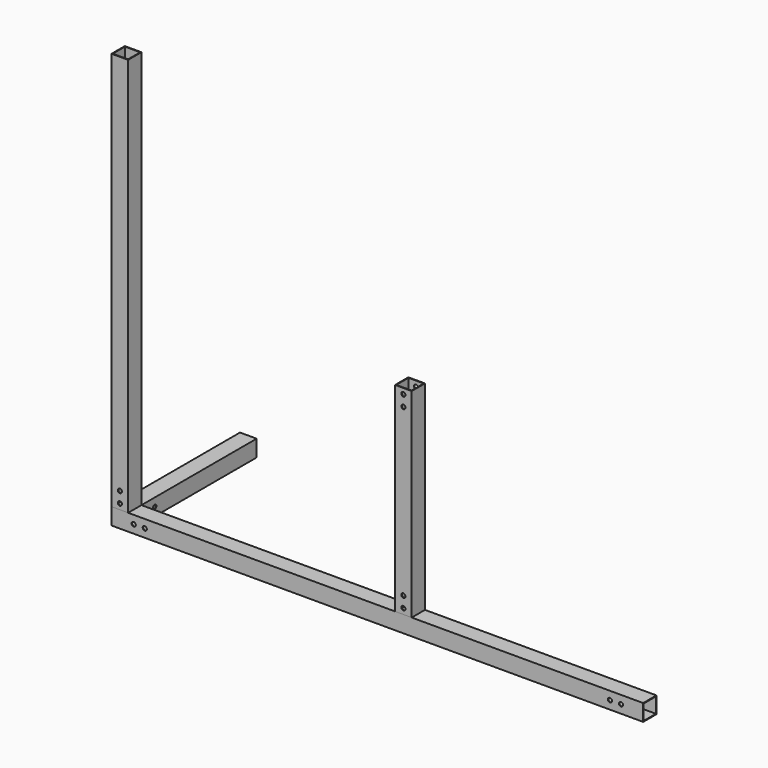
from build123d import *

# Parameters (mm, degrees)
F0_W      = 38.1
F0_H      = 38.1
F0_W_2    = 34.9504
F0_H_2    = 34.9504
F1_DEPTH  = 1219.2
F2_W      = 1.5748
F2_H      = 1.5748
F2_W_2    = 34.9504
F2_H_2    = 34.9504
F3_DEPTH  = 914.4
F4_W      = 1.5748
F4_H      = 1.5748
F4_W_2    = 34.9504
F4_H_2    = 34.9504
F5_DEPTH  = 330.2
F6_R      = 4.7625
F7_DEPTH  = 368.301
F8_R      = 4.7625
F9_DEPTH  = 1219.201
F11_W     = 1.5748
F11_H     = 1.5748
F11_W_2   = 34.9504
F11_H_2   = 34.9504
F12_DEPTH = 457.2
F13_R     = 4.7625
F14_DEPTH = 368.301
F10_R     = 4.7625
F15_DEPTH = 368.301


with BuildPart() as f1:
    # F0 (on Right) → F1 (new body)
    with BuildSketch(Plane.YZ):
        Rectangle(F0_W, F0_H)
        Rectangle(F0_W_2, F0_H_2, mode=Mode.SUBTRACT)
    extrude(amount=F1_DEPTH)

    # F6 (on face) → F7 (cut, through all)
    with BuildSketch(Plane.XZ.offset(19.05)):
        with Locations((50.8, 0)):
            Circle(F6_R)
        with Locations((76.2, 0)):
            Circle(F6_R)
        with Locations((1168.4, 0)):
            Circle(F6_R)
        with Locations((1143, 0)):
            Circle(F6_R)
    extrude(amount=-F7_DEPTH, mode=Mode.SUBTRACT)


with BuildPart() as f3:
    # F2 (on face) → F3 (new body)
    with BuildSketch(Plane.XY.offset(19.05)):
        with Locations((0.7874, -18.2626)):
            Rectangle(F2_W, F2_H)
        with Locations((19.05, -18.2626)):
            Rectangle(F2_W_2, F2_H)
        with Locations((0.7874, 0)):
            Rectangle(F2_W, F2_H_2)
        with Locations((37.3126, -18.2626)):
            Rectangle(F2_W, F2_H)
        with Locations((0.7874, 18.2626)):
            Rectangle(F2_W, F2_H)
        with Locations((37.3126, 0)):
            Rectangle(F2_W, F2_H_2)
        with Locations((19.05, 18.2626)):
            Rectangle(F2_W_2, F2_H)
        with Locations((37.3126, 18.2626)):
            Rectangle(F2_W, F2_H)
    extrude(amount=F3_DEPTH)

    # F10 (on face) → F15 (cut, through all)
    with BuildSketch(Plane.XZ.offset(19.05)):
        with Locations((19.05, 31.75)):
            Circle(F10_R)
        with Locations((19.05, 57.15)):
            Circle(F10_R)
    extrude(amount=-F15_DEPTH, mode=Mode.SUBTRACT)


with BuildPart() as f5:
    # F4 (on face) → F5 (new body)
    with BuildSketch(Plane(origin=(0, 19.05, 0), x_dir=(-1, 0, 0), z_dir=(0, 1, 0))):
        with Locations((-0.7874, 18.2626)):
            Rectangle(F4_W, F4_H)
        with Locations((-19.05, 18.2626)):
            Rectangle(F4_W_2, F4_H)
        with Locations((-0.7874, 0)):
            Rectangle(F4_W, F4_H_2)
        with Locations((-37.3126, 18.2626)):
            Rectangle(F4_W, F4_H)
        with Locations((-0.7874, -18.2626)):
            Rectangle(F4_W, F4_H)
        with Locations((-37.3126, 0)):
            Rectangle(F4_W, F4_H_2)
        with Locations((-19.05, -18.2626)):
            Rectangle(F4_W_2, F4_H)
        with Locations((-37.3126, -18.2626)):
            Rectangle(F4_W, F4_H)
    extrude(amount=F5_DEPTH)

    # F8 (on face) → F9 (cut, through all)
    with BuildSketch(Plane(origin=(0, 0, 0), x_dir=(0, -1, 0), z_dir=(-1, 0, 0))):
        with Locations((-31.75, 0)):
            Circle(F8_R)
        with Locations((-57.15, 0)):
            Circle(F8_R)
    extrude(amount=-F9_DEPTH, mode=Mode.SUBTRACT)


with BuildPart() as f12:
    # F11 (on face) → F12 (new body)
    with BuildSketch(Plane.XY.offset(19.05)):
        with Locations((651.030384, -18.2626)):
            Rectangle(F11_W, F11_H)
        with Locations((669.292984, -18.2626)):
            Rectangle(F11_W_2, F11_H)
        with Locations((651.030384, 0)):
            Rectangle(F11_W, F11_H_2)
        with Locations((687.555584, -18.2626)):
            Rectangle(F11_W, F11_H)
        with Locations((651.030384, 18.2626)):
            Rectangle(F11_W, F11_H)
        with Locations((687.555584, 0)):
            Rectangle(F11_W, F11_H_2)
        with Locations((669.292984, 18.2626)):
            Rectangle(F11_W_2, F11_H)
        with Locations((687.555584, 18.2626)):
            Rectangle(F11_W, F11_H)
    extrude(amount=F12_DEPTH)

    # F13 (on face) → F14 (cut, through all)
    with BuildSketch(Plane.XZ.offset(19.05)):
        with Locations((669.292984, 31.75)):
            Circle(F13_R)
        with Locations((669.292984, 57.15)):
            Circle(F13_R)
        with Locations((669.292984, 463.55)):
            Circle(F13_R)
        with Locations((669.292984, 438.15)):
            Circle(F13_R)
    extrude(amount=-F14_DEPTH, mode=Mode.SUBTRACT)


solid = Compound([f1.part, f3.part, f5.part, f12.part])
